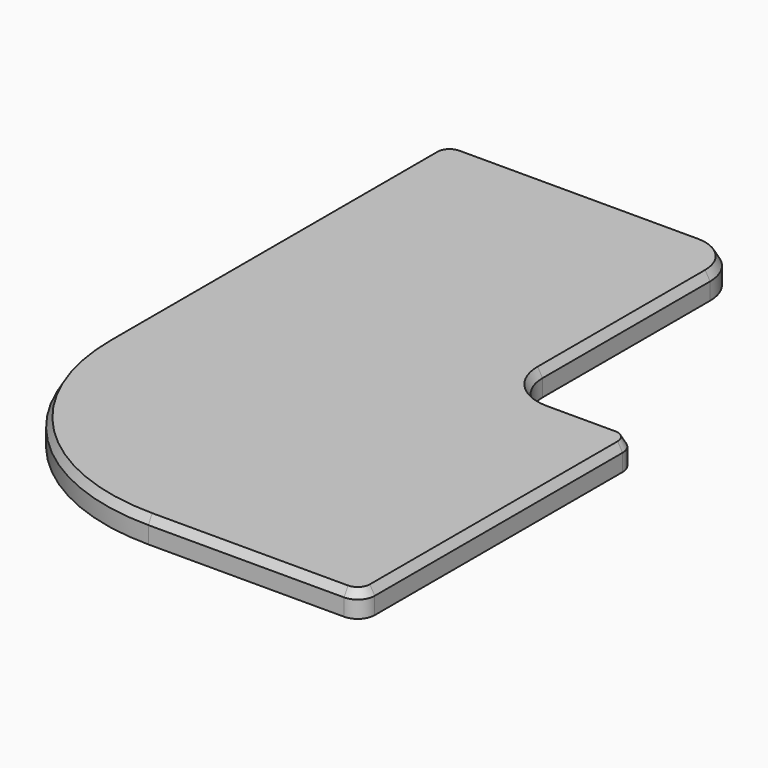
from build123d import *

# Parameters (mm, degrees)
F1_DEPTH = 3
F2_SIZE2 = 0.57735
F2_SIZE  = 1


with BuildPart() as f1:
    # F0 (on Top) → F1 (new body)
    with BuildSketch(Plane.XY):
        with BuildLine():
            Line((0, 32.6), (0, 0))
            Line((0, 0), (0, -15.4))
            ThreePointArc((0, -15.4), (7.32233, -33.07767), (25, -40.4))
            Line((25, -40.4), (48, -40.4))
            ThreePointArc((48, -40.4), (49.414214, -39.814214), (50, -38.4))
            Line((50, -38.4), (50, -2))
            ThreePointArc((50, -2), (49.414214, -0.585786), (48, 0))
            Line((48, 0), (40, 0))
            ThreePointArc((40, 0), (36.464466, 1.464466), (35, 5))
            Line((35, 5), (35, 29.6))
            ThreePointArc((35, 29.6), (33.535534, 33.135534), (30, 34.6))
            Line((30, 34.6), (2, 34.6))
            ThreePointArc((2, 34.6), (0.585786, 34.014214), (0, 32.6))
        make_face()
    extrude(amount=F1_DEPTH)

    # F2
    f2_edges = [f1.edges().sort_by_distance(p)[0] for p in [
        (0, 8.6, 3),
    ]]
    chamfer(f2_edges, length=F2_SIZE, length2=F2_SIZE2)


solid = f1.part
